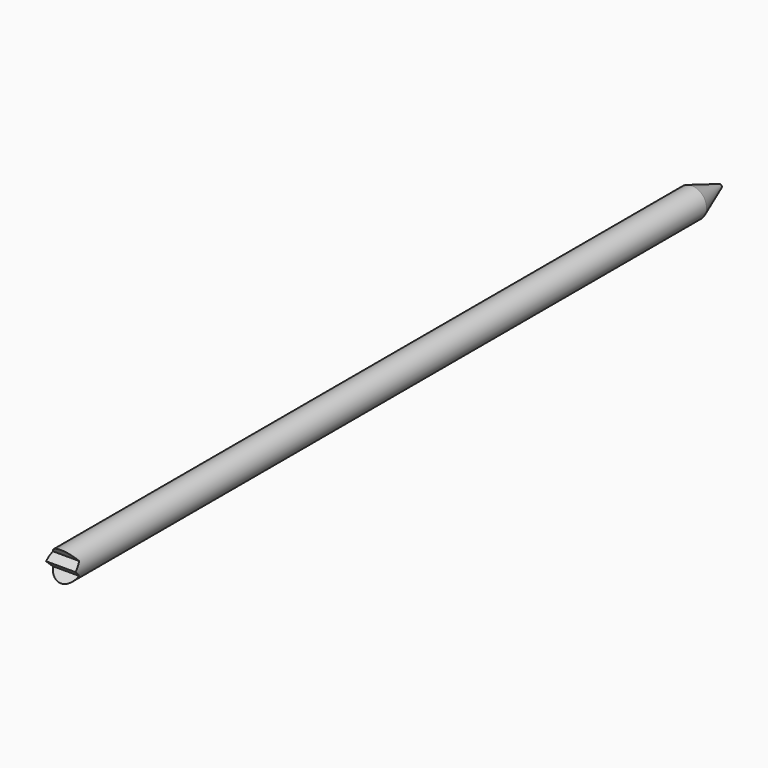
from build123d import *

# Parameters (mm, degrees)
F0_R     = 1.5875
F1_DEPTH = 88.9
F2_SIZE2 = 1.386727
F2_SIZE  = 3.81
F4_DEPTH = 25.4
F5_DEPTH = 25.4


with BuildPart() as f1:
    # F0 (on Front) → F1 (new body)
    with BuildSketch(Plane.XZ):
        Circle(F0_R)
    extrude(amount=-F1_DEPTH)

    # F2
    f2_edges = [f1.edges().sort_by_distance(p)[0] for p in [
        (-1.5875, 88.9, 0),
    ]]
    chamfer(f2_edges, length=F2_SIZE, length2=F2_SIZE2)

    # F3 (on Right) → F4 (cut)
    with BuildSketch(Plane.YZ):
        Polygon((0.709303, -0.709303), (0, 0), (0, -1.5875), align=None)
        Polygon((0.709303, 0.709303), (0, 1.5875), (0, 0), align=None)
    extrude(amount=-F4_DEPTH, mode=Mode.SUBTRACT)

    # F3 (on Right) → F5 (cut)
    with BuildSketch(Plane.YZ):
        Polygon((0.709303, -0.709303), (0, 0), (0, -1.5875), align=None)
        Polygon((0.709303, 0.709303), (0, 1.5875), (0, 0), align=None)
    extrude(amount=F5_DEPTH, mode=Mode.SUBTRACT)


solid = f1.part
